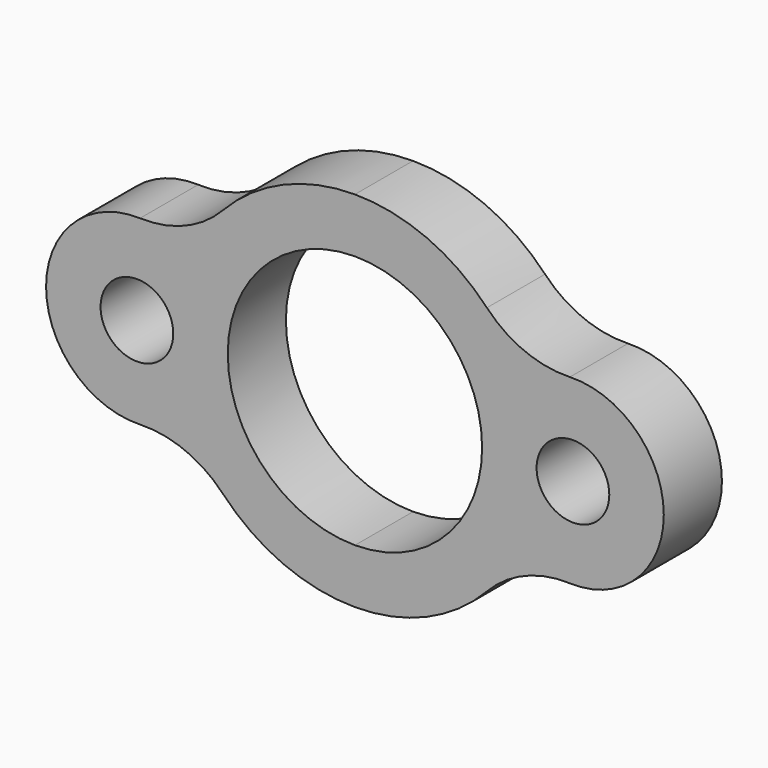
from build123d import *

# Parameters (mm, degrees)
F0_R     = 12.7
F1_DEPTH = 25.4


with BuildPart() as f1:
    # F0 (on Front) → F1 (new body)
    with BuildSketch(Plane.XZ):
        with BuildLine():
            ThreePointArc((0, -44.45), (-44.45, 0), (0, 44.45))
            Line((0, 44.45), (0, 63.5))
            ThreePointArc((0, 63.5), (-25.116623, 58.321568), (-46.136719, 43.630874))
            ThreePointArc((-46.136719, 43.630874), (-59.347524, 34.564632), (-75.117614, 31.731545))
            ThreePointArc((-75.117614, 31.731545), (-107.95, 0), (-75.117614, -31.731545))
            ThreePointArc((-75.117614, -31.731545), (-59.347524, -34.564632), (-46.136719, -43.630874))
            ThreePointArc((-46.136719, -43.630874), (-25.116623, -58.321568), (0, -63.5))
            Line((0, -63.5), (0, -44.45))
        make_face()
        with Locations((-76.2, 0)):
            Circle(F0_R, mode=Mode.SUBTRACT)
        with BuildLine():
            ThreePointArc((0, 44.45), (31.430896, 31.430896), (44.45, 0))
            ThreePointArc((44.45, 0), (31.430896, -31.430896), (0, -44.45))
            Line((0, -44.45), (0, -63.5))
            ThreePointArc((0, -63.5), (25.116623, -58.321568), (46.136719, -43.630874))
            ThreePointArc((46.136719, -43.630874), (59.347524, -34.564632), (75.117614, -31.731545))
            ThreePointArc((75.117614, -31.731545), (107.95, 0), (75.117614, 31.731545))
            ThreePointArc((75.117614, 31.731545), (59.347524, 34.564632), (46.136719, 43.630874))
            ThreePointArc((46.136719, 43.630874), (25.116623, 58.321568), (0, 63.5))
            Line((0, 63.5), (0, 44.45))
        make_face()
        with Locations((76.2, 0)):
            Circle(F0_R, mode=Mode.SUBTRACT)
    extrude(amount=F1_DEPTH)


solid = f1.part
